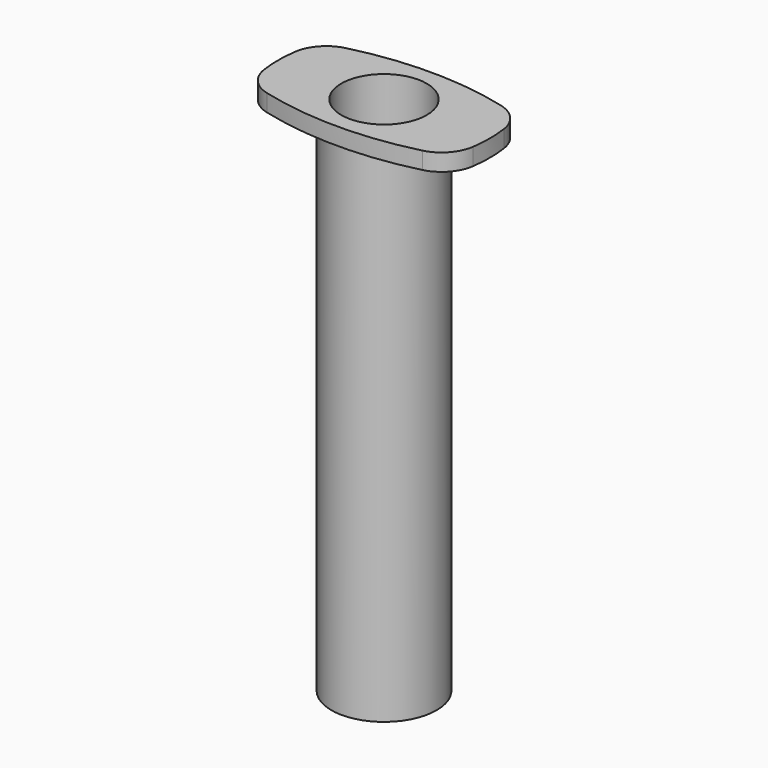
from build123d import *

# Parameters (mm, degrees)
SKETCH_R      = 4.75
PAD_DEPTH     = 1.9
SKETCH001_R   = 5.85
SKETCH001_R_2 = 4.75
PAD001_DEPTH  = 56
FILLET_R      = 4


with BuildPart() as part:
    # Sketch → Pad (new body)
    with BuildSketch(Plane.XY):
        with BuildLine():
            ThreePointArc((11, 4.75), (0, 6.523505), (-11, 4.75))
            ThreePointArc((-11, 4.75), (-11.771947, 0), (-11, -4.75))
            ThreePointArc((-11, -4.75), (0, -6.523505), (11, -4.75))
            ThreePointArc((11, -4.75), (11.771947, 0), (11, 4.75))
        make_face()
        Circle(SKETCH_R, mode=Mode.SUBTRACT)
    extrude(amount=PAD_DEPTH)

    # Sketch001 → Pad001 (join)
    with BuildSketch(Plane.XY):
        Circle(SKETCH001_R)
        Circle(SKETCH001_R_2, mode=Mode.SUBTRACT)
    extrude(amount=-PAD001_DEPTH)

    # Fillet
    fillet_edges = [part.edges().sort_by_distance(p)[0] for p in [
        (11, -4.75, 0.95),
        (-11, -4.75, 0.95),
        (-11, 4.75, 0.95),
        (11, 4.75, 0.95),
    ]]
    fillet(fillet_edges, radius=FILLET_R)


solid = part.part
